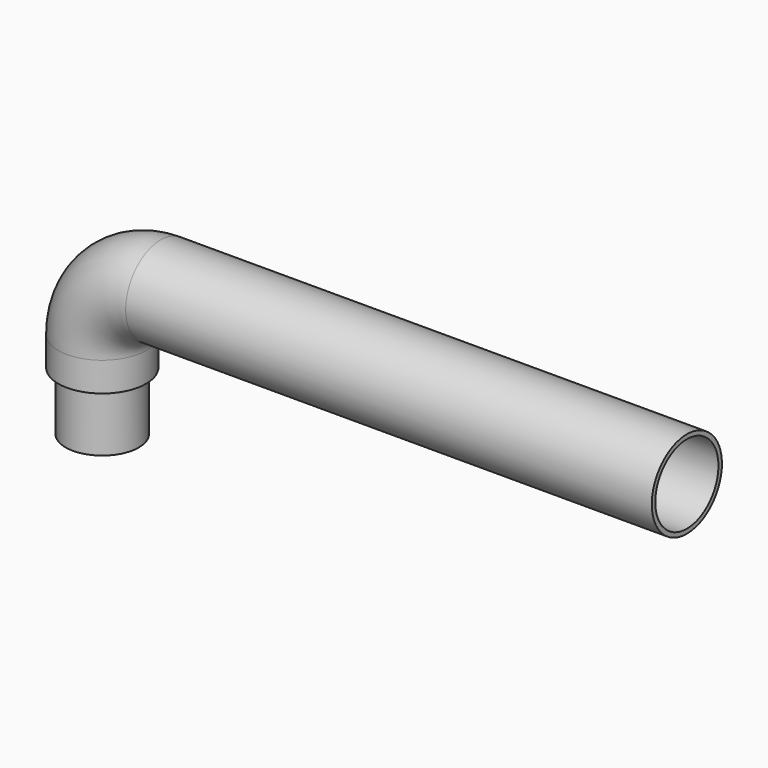
from build123d import *

# Parameters (mm, degrees)
F1_R     = 15
F3_R     = 15
F3_R_2   = 12.5
F4_DEPTH = 20
F5_R     = 13.5
F6_DEPTH = 180


with BuildPart() as f2:
    # F2: sweep along a path in F0
    with BuildLine(Plane.XZ) as f2_path:
        Line((0, 0), (0, 30))
        ThreePointArc((0, 30), (5.8578643763, 44.1421356237), (20, 50))
        Line((20, 50), (200, 50))
    # F1 (on Top) → F2 (sweep)
    with BuildSketch(Plane.XY):
        Circle(F1_R)
    sweep(path=f2_path.line)

    # F3 (on Top) → F4 (cut)
    with BuildSketch(Plane.XY):
        Circle(F3_R)
        Circle(F3_R_2, mode=Mode.SUBTRACT)
    extrude(amount=F4_DEPTH, mode=Mode.SUBTRACT)

    # F5 (on face) → F6 (cut)
    with BuildSketch(Plane.YZ.offset(200)):
        with Locations((0, 50)):
            Circle(F5_R)
    extrude(amount=-F6_DEPTH, mode=Mode.SUBTRACT)


solid = f2.part
